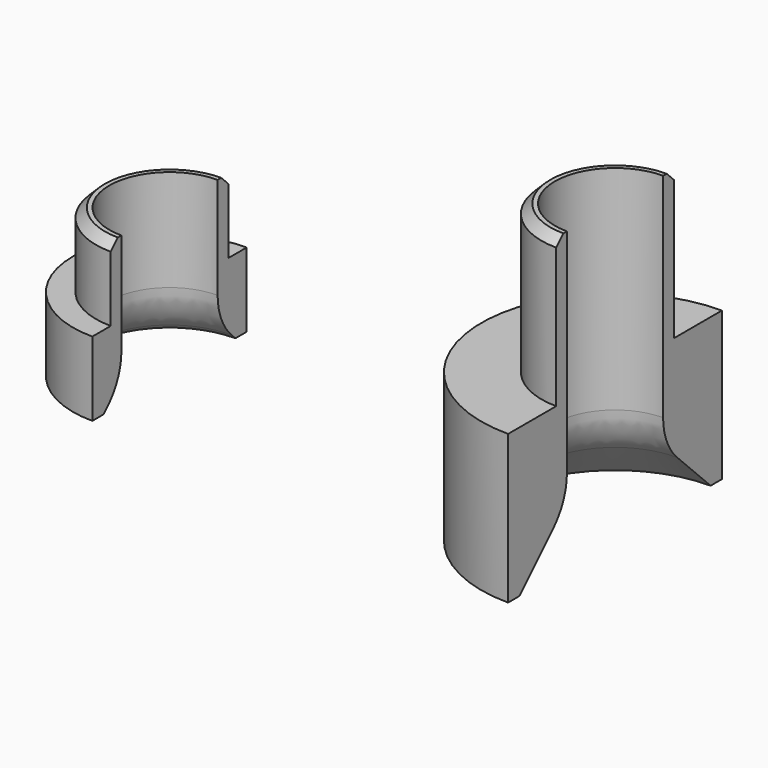
from build123d import *

# Parameters (mm, degrees)
F1_DEPTH  = 5
F2_DEPTH  = 10
F3_DEPTH  = 10
F4_DEPTH  = 20
F5_SIZE   = 1.5
F6_SIZE   = 0.6
F6_2_SIZE = 0.6
F7_SIZE   = 4
F8_R      = 4
F8_2_R    = 4


with BuildPart() as f1:
    # F0 (on Top) → F1 (new body)
    with BuildSketch(Plane.XY):
        with BuildLine():
            Line((0, 4.95), (0, 6.5))
            ThreePointArc((0, 6.5), (-6.5, 0), (0, -6.5))
            Line((0, -6.5), (0, -4.95))
            ThreePointArc((0, -4.95), (-4.95, 0), (0, 4.95))
        make_face()
    extrude(amount=F1_DEPTH)

    # F0 (on Top) → F2 (join)
    with BuildSketch(Plane.XY):
        with BuildLine():
            Line((0, 4.05), (0, 4.95))
            ThreePointArc((0, 4.95), (-4.95, 0), (0, -4.95))
            Line((0, -4.95), (0, -4.05))
            ThreePointArc((0, -4.05), (-4.05, 0), (0, 4.05))
        make_face()
    extrude(amount=F2_DEPTH)

    # F5
    f5_edges = [f1.edges().sort_by_distance(p)[0] for p in [
        (-4.05, 0, 0),
    ]]
    chamfer(f5_edges, length=F5_SIZE)

    # F6
    f6_edges = [f1.edges().sort_by_distance(p)[0] for p in [
        (-4.95, 0, 10),
    ]]
    chamfer(f6_edges, length=F6_SIZE)

    # F8
    f8_edges = [f1.edges().sort_by_distance(p)[0] for p in [
        (-4.05, 0, 1.5),
    ]]
    fillet(f8_edges, radius=F8_R)


with BuildPart() as f3:
    # F0 (on Top) → F3 (new body)
    with BuildSketch(Plane.XY):
        with BuildLine():
            Line((30, 4.95), (30, 9))
            ThreePointArc((30, 9), (21, 0), (30, -9))
            Line((30, -9), (30, -4.95))
            ThreePointArc((30, -4.95), (25.05, 0), (30, 4.95))
        make_face()
    extrude(amount=F3_DEPTH)

    # F0 (on Top) → F4 (join)
    with BuildSketch(Plane.XY):
        with BuildLine():
            Line((30, 4.05), (30, 4.95))
            ThreePointArc((30, 4.95), (25.05, 0), (30, -4.95))
            Line((30, -4.95), (30, -4.05))
            ThreePointArc((30, -4.05), (25.95, 0), (30, 4.05))
        make_face()
    extrude(amount=F4_DEPTH)

    # F6#2
    f6_2_edges = [f3.edges().sort_by_distance(p)[0] for p in [
        (25.05, 0, 20),
    ]]
    chamfer(f6_2_edges, length=F6_2_SIZE)

    # F7
    f7_edges = [f3.edges().sort_by_distance(p)[0] for p in [
        (25.95, 0, 0),
    ]]
    chamfer(f7_edges, length=F7_SIZE)

    # F8#2
    f8_2_edges = [f3.edges().sort_by_distance(p)[0] for p in [
        (25.95, 0, 4),
    ]]
    fillet(f8_2_edges, radius=F8_2_R)


solid = Compound([f1.part, f3.part])
